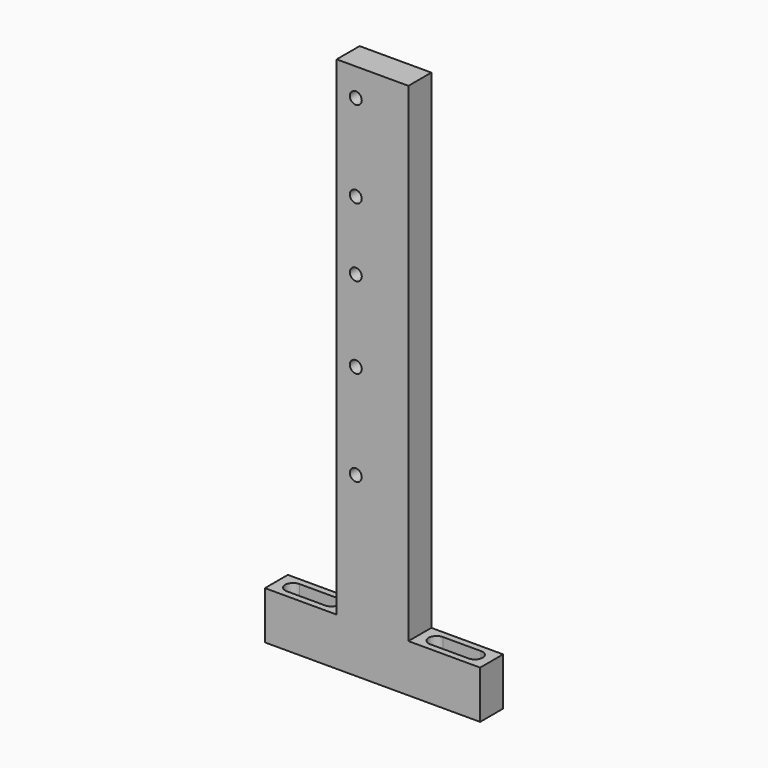
from build123d import *

# Parameters (mm, degrees)
F1_DEPTH = 12
F3_D     = 5
F6_DEPTH = 20.001


with BuildPart() as f1:
    # F0 (on Front) → F1 (new body)
    with BuildSketch(Plane.XZ):
        Polygon((0, 20), (0, 0), (90, 0), (90, 20), (60, 20), (60, 224.426331), (30, 224.426331), (30, 20), align=None)
    extrude(amount=F1_DEPTH)

    # F3 (through all)
    with Locations(Plane.XZ.offset(12)):
        with Locations((38, 212.783181), (38, 176.517542), (38, 147.860397), (38, 113.817503), (38, 74.002333)):
            Hole(F3_D / 2)

    # F4 (on face) + F5 (on face) → F6 (cut, through all)
    with BuildSketch(Plane.XY.offset(20)):
        with BuildLine():
            ThreePointArc((15, -9.3), (12.666548, -8.333452), (11.7, -6))
            ThreePointArc((11.7, -6), (12.666548, -3.666548), (15, -2.7))
            Line((15, -2.7), (7, -2.7))
            ThreePointArc((7, -2.7), (3.7, -6), (7, -9.3))
            Line((7, -9.3), (15, -9.3))
        make_face()
        with BuildLine():
            Line((18.3, -6), (15, -6))
            Line((15, -6), (11.7, -6))
            ThreePointArc((11.7, -6), (12.666548, -8.333452), (15, -9.3))
            ThreePointArc((15, -9.3), (17.333452, -8.333452), (18.3, -6))
        make_face()
        with BuildLine():
            ThreePointArc((15, -2.7), (17.333452, -3.666548), (18.3, -6))
            ThreePointArc((18.3, -6), (17.333452, -8.333452), (15, -9.3))
            Line((15, -9.3), (23, -9.3))
            ThreePointArc((23, -9.3), (26.3, -6), (23, -2.7))
            Line((23, -2.7), (15, -2.7))
        make_face()
        with BuildLine():
            Line((11.7, -6), (15, -6))
            Line((15, -6), (18.3, -6))
            ThreePointArc((18.3, -6), (17.333452, -3.666548), (15, -2.7))
            ThreePointArc((15, -2.7), (12.666548, -3.666548), (11.7, -6))
        make_face()
    with BuildSketch(Plane.XY.offset(20)):
        with BuildLine():
            ThreePointArc((75, -9.3), (72.666548, -8.333452), (71.7, -6))
            ThreePointArc((71.7, -6), (72.666548, -3.666548), (75, -2.7))
            Line((75, -2.7), (67, -2.7))
            ThreePointArc((67, -2.7), (63.7, -6), (67, -9.3))
            Line((67, -9.3), (75, -9.3))
        make_face()
        with BuildLine():
            Line((78.3, -6), (75, -6))
            Line((75, -6), (71.7, -6))
            ThreePointArc((71.7, -6), (72.666548, -8.333452), (75, -9.3))
            ThreePointArc((75, -9.3), (77.333452, -8.333452), (78.3, -6))
        make_face()
        with BuildLine():
            Line((71.7, -6), (75, -6))
            Line((75, -6), (78.3, -6))
            ThreePointArc((78.3, -6), (77.333452, -3.666548), (75, -2.7))
            ThreePointArc((75, -2.7), (72.666548, -3.666548), (71.7, -6))
        make_face()
        with BuildLine():
            ThreePointArc((75, -2.7), (77.333452, -3.666548), (78.3, -6))
            ThreePointArc((78.3, -6), (77.333452, -8.333452), (75, -9.3))
            Line((75, -9.3), (83, -9.3))
            ThreePointArc((83, -9.3), (86.3, -6), (83, -2.7))
            Line((83, -2.7), (75, -2.7))
        make_face()
    extrude(amount=-F6_DEPTH, mode=Mode.SUBTRACT)


solid = f1.part
